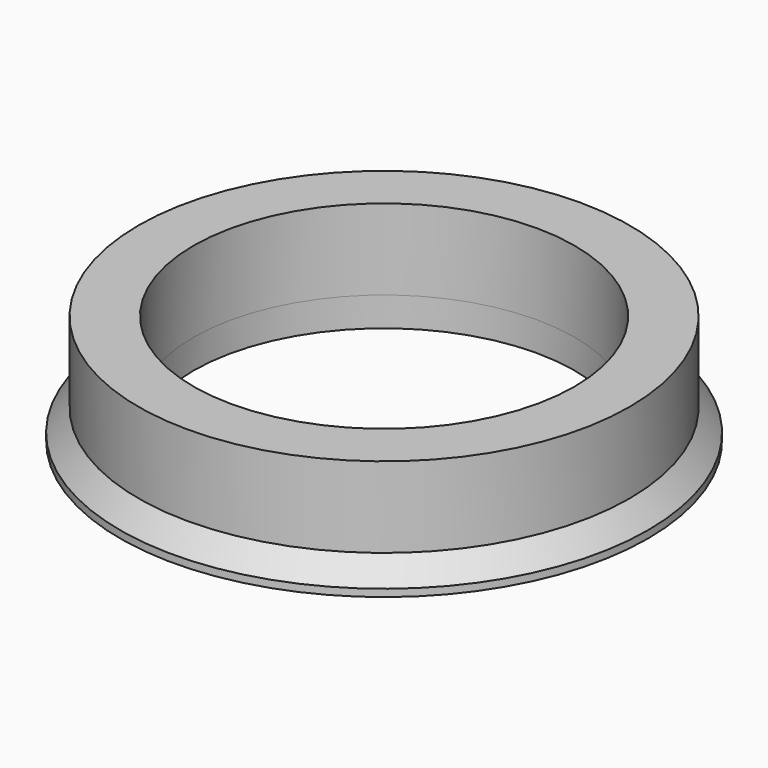
from build123d import *

# Parameters (mm, degrees)
F0_R     = 36
F0_R_2   = 26
F1_DEPTH = 4
F2_R     = 33.5
F2_R_2   = 26
F3_DEPTH = 11
F4_SIZE2 = 3
F4_SIZE  = 2.5


with BuildPart() as f1:
    # F0 (on Top) → F1 (new body)
    with BuildSketch(Plane.XY):
        with Locations((-21.9432450831, 7.5677670538)):
            Circle(F0_R)
        with Locations((-21.9432450831, 7.5677670538)):
            Circle(F0_R_2, mode=Mode.SUBTRACT)
    extrude(amount=F1_DEPTH)

    # F4
    f4_edges = [f1.edges().sort_by_distance(p)[0] for p in [
        (-57.943245, 7.567767, 4),
    ]]
    f4_side = f1.faces().sort_by_distance((-56.925011, 7.567767, 4))[0]
    chamfer(f4_edges, length=F4_SIZE, length2=F4_SIZE2, reference=f4_side)


with BuildPart() as f3:
    # F2 (on face) → F3 (new body)
    with BuildSketch(Plane.XY.offset(4)):
        with Locations((-21.9432450831, 7.5677670538)):
            Circle(F2_R)
        with Locations((-21.9432450831, 7.5677670538)):
            Circle(F2_R_2, mode=Mode.SUBTRACT)
    extrude(amount=F3_DEPTH)


solid = Compound([f1.part, f3.part])
